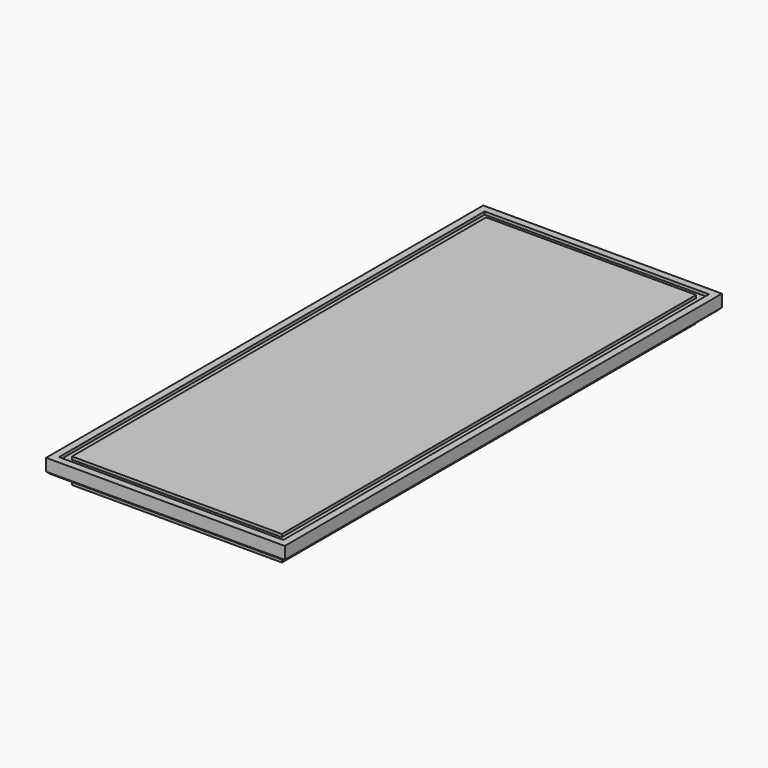
from build123d import *

# Parameters (mm, degrees)
SKETCH004_W     = 166
SKETCH004_H     = 380
PAD002_DEPTH    = 130
SKETCH005_W     = 166
SKETCH005_H     = 380
POCKET002_DEPTH = 120
SKETCH006_W     = 146
SKETCH006_H     = 360
PAD003_DEPTH    = 7.5
SKETCH015_W     = 156
SKETCH015_H     = 370
SKETCH015_W_2   = 146
SKETCH015_H_2   = 360
POCKET008_DEPTH = 2
CHAMFER005_SIZE = 1.5


with BuildPart() as part:
    # Sketch004 → Pad002 (new body)
    with BuildSketch(Plane.XY):
        Rectangle(SKETCH004_W, SKETCH004_H)
    extrude(amount=PAD002_DEPTH)

    # Sketch005 (on Face5 of Pad002) → Pocket002 (cut)
    with BuildSketch(Plane(origin=(0, 0, 0), x_dir=(1, 0, 0), z_dir=(0, 0, -1))):
        Rectangle(SKETCH005_W, SKETCH005_H)
    extrude(amount=-POCKET002_DEPTH, mode=Mode.SUBTRACT)

    # Sketch006 (on Face2 of Pocket002) → Pad003 (join)
    with BuildSketch(Plane(origin=(0, 0, 120), x_dir=(1, 0, 0), z_dir=(0, 0, -1))):
        Rectangle(SKETCH006_W, SKETCH006_H)
    extrude(amount=PAD003_DEPTH)

    # Sketch015 (on Face4 of Pad003) → Pocket008 (cut)
    with BuildSketch(Plane.XY.offset(130)):
        Rectangle(SKETCH015_W, SKETCH015_H)
        Rectangle(SKETCH015_W_2, SKETCH015_H_2, mode=Mode.SUBTRACT)
    extrude(amount=-POCKET008_DEPTH, mode=Mode.SUBTRACT)

    # Chamfer005
    chamfer005_edges = [part.edges().sort_by_distance(p)[0] for p in [
        (83, 0, 120),
        (0, -190, 120),
        (-83, 0, 120),
        (0, 190, 120),
    ]]
    chamfer(chamfer005_edges, length=CHAMFER005_SIZE)


solid = part.part
